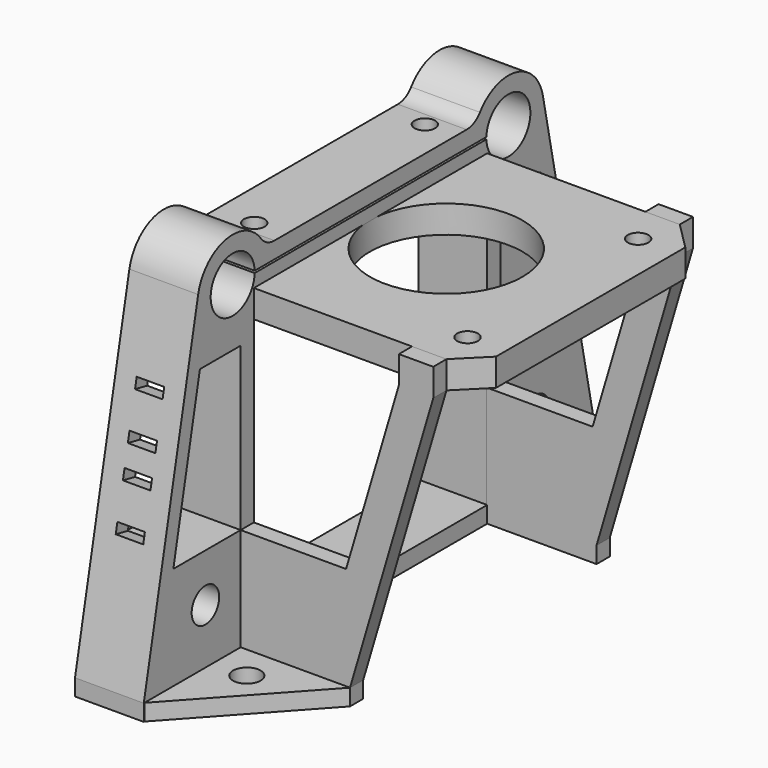
from build123d import *

# Parameters (mm, degrees)
SKETCH015_W     = 42
SKETCH015_H     = 42.4
PAD004_DEPTH    = 4
CHAMFER003_SIZE = 4
SKETCH018_R     = 11.1
SKETCH018_R_2   = 1.5
POCKET010_DEPTH = 4.001
SKETCH019_R     = 2.5
SKETCH019_W     = 42.4
SKETCH019_H     = 45
PAD006_DEPTH    = 10
SKETCH020_R     = 1.5
POCKET011_DEPTH = 12.401
FILLET004_R     = 3
SKETCH_W        = 1.5
SKETCH_H        = 4
POCKET_DEPTH    = 2.2533090509
PAD007_DEPTH    = 2.4
PAD008_DEPTH    = 2.4
SKETCH023_R     = 2
PAD009_DEPTH    = 2.4
SKETCH024_R     = 2
PAD010_DEPTH    = 2.4


with BuildPart() as motorplate:
    # Sketch015 → Pad004 (new body)
    with BuildSketch(Plane.XY):
        Rectangle(SKETCH015_W, SKETCH015_H)
    extrude(amount=PAD004_DEPTH)

    # Chamfer003
    chamfer003_edges = [motorplate.edges().sort_by_distance(p)[0] for p in [
        (21, -21.2, 2),
        (21, 21.2, 2),
    ]]
    chamfer(chamfer003_edges, length=CHAMFER003_SIZE)

    # Sketch018 → Pocket010 (cut, through all)
    with BuildSketch(Plane(origin=(0, 0, 0), x_dir=(1, 0, 0), z_dir=(0, 0, -1))):
        Circle(SKETCH018_R)
        with Locations((-15.5, 15.5)):
            Circle(SKETCH018_R_2)
        with Locations((15.5, 15.5)):
            Circle(SKETCH018_R_2)
        with Locations((-15.5, -15.5)):
            Circle(SKETCH018_R_2)
        with Locations((15.5, -15.5)):
            Circle(SKETCH018_R_2)
    extrude(amount=-POCKET010_DEPTH, mode=Mode.SUBTRACT)


with BuildPart() as rodholder:
    # Sketch019 → Pad006 (new body)
    with BuildSketch(Plane(origin=(-21.2, 0, 0), x_dir=(0, -1, 0), z_dir=(-1, 0, 0))):
        with BuildLine():
            ThreePointArc((-19.1799488929, 8.55), (-25.7143172438, 12.3654287051), (-31.3200773591, 7.2830159436))
            Line((-31.3200773591, 7.2830159436), (-41.2, -41))
            Line((-41.2, -41), (-41.2, -43.4))
            Line((-41.2, -43.4), (41.2, -43.4))
            Line((41.2, -41), (41.2, -43.4))
            Line((41.2, -41), (31.3200773591, 7.2830159436))
            ThreePointArc((31.3200773591, 7.2830159436), (25.7143172438, 12.3654287051), (19.1799488929, 8.55))
            Line((-19.1799488929, 8.55), (19.1799488929, 8.55))
        make_face()
        with Locations((-30, -33)):
            Circle(SKETCH019_R, mode=Mode.SUBTRACT)
        with Locations((30, -33)):
            Circle(SKETCH019_R, mode=Mode.SUBTRACT)
        with Locations((0, -18.5)):
            Rectangle(SKETCH019_W, SKETCH019_H, mode=Mode.SUBTRACT)
        with BuildLine():
            ThreePointArc((21.0528134895, 5.85), (29.05, 6), (21.0528134895, 6.15))
            Line((-21.0528134895, 6.15), (21.0528134895, 6.15))
            ThreePointArc((-21.0528134895, 6.15), (-29.05, 6), (-21.0528134895, 5.85))
            Line((-21.0528134895, 5.85), (21.0528134895, 5.85))
        make_face(mode=Mode.SUBTRACT)
        Polygon((-31.001466603, -2.4), (-23.6, -2.4), (-23.6, -26), (-35.8306217369, -26), align=None, mode=Mode.SUBTRACT)
        Polygon((23.6, -2.4), (23.6, -26), (35.8306217369, -26), (31.001466603, -2.4), align=None, mode=Mode.SUBTRACT)
    extrude(amount=-PAD006_DEPTH)

    # Sketch020 → Pocket011 (cut, through all)
    with BuildSketch(Plane.XY):
        with Locations((-15.7, 15.5)):
            Circle(SKETCH020_R)
        with Locations((-15.7, -15.5)):
            Circle(SKETCH020_R)
    extrude(amount=POCKET011_DEPTH, mode=Mode.SUBTRACT)

    # Fillet004
    fillet004_edges = [rodholder.edges().sort_by_distance(p)[0] for p in [
        (-16.2, -19.179949, 8.55),
        (-16.2, 19.179949, 8.55),
    ]]
    fillet(fillet004_edges, radius=FILLET004_R)

    # Sketch (on Face4 of Fillet004) → Pocket (cut)
    with BuildSketch(Plane(origin=(-21.2, -31.4917595132, 6.4440081411), x_dir=(0, 0.2004712412, 0.9796995874), z_dir=(0, -0.9796995874, 0.2004712412))):
        with Locations((-29.4533105631, -5)):
            Rectangle(SKETCH_W, SKETCH_H)
        with Locations((-22.9533105631, -5)):
            Rectangle(SKETCH_W, SKETCH_H)
        with Locations((-18.4533105631, -5)):
            Rectangle(SKETCH_W, SKETCH_H)
        with Locations((-11.9533105631, -5)):
            Rectangle(SKETCH_W, SKETCH_H)
    extrude(amount=-POCKET_DEPTH, mode=Mode.SUBTRACT)


with BuildPart() as rodholder_1:
    # Body002 placement: moved
    add(rodholder.part.moved(Location((0.2, 0, 0))))


with BuildPart() as rightsupport:
    # Sketch021 → Pad007 (new body)
    with BuildSketch(Plane.XZ):
        Polygon((-11.1, -43.4), (4.9, -43.4), (4.9, -41), (17, 0), (17, 4), (12, 4), (12, 0), (4.3268292683, -26), (-11.1, -26), align=None)
    extrude(amount=PAD007_DEPTH)


with BuildPart() as rightsupport_1:
    # Body003 placement: moved
    add(rightsupport.part.moved(Location((0, -21.2, 0))))


with BuildPart() as leftsupport:
    # Sketch022 → Pad008 (new body)
    with BuildSketch(Plane.XZ):
        Polygon((12, 4), (17, 4), (17, 0), (4.9, -41), (4.9, -43.4), (-11.1, -43.4), (-11.1, -26), (4.3268292683, -26), (12, 0), align=None)
    extrude(amount=-PAD008_DEPTH)


with BuildPart() as leftsupport_1:
    # Body004 placement: moved
    add(leftsupport.part.moved(Location((0, 21.2, 0))))


with BuildPart() as rightmountingplate:
    # Sketch023 → Pad009 (new body)
    with BuildSketch(Plane.XY):
        Polygon((-11.1, -23.6), (-11.1, -41.2), (4.9, -23.6), align=None)
        with Locations((-6.1, -28.6)):
            Circle(SKETCH023_R, mode=Mode.SUBTRACT)
    extrude(amount=-PAD009_DEPTH)


with BuildPart() as rightmountingplate_1:
    # Body005 placement: moved
    add(rightmountingplate.part.moved(Location((0, 0, -41))))


with BuildPart() as leftmountingplate:
    # Sketch024 → Pad010 (new body)
    with BuildSketch(Plane.XY):
        Polygon((-11.1, 41.2), (-11.1, 23.6), (4.9, 23.6), align=None)
        with Locations((-6.1, 28.6)):
            Circle(SKETCH024_R, mode=Mode.SUBTRACT)
    extrude(amount=-PAD010_DEPTH)


with BuildPart() as leftmountingplate_1:
    # Body006 placement: moved
    add(leftmountingplate.part.moved(Location((0, 0, -41))))


solid = Compound([motorplate.part, rodholder_1.part, rightsupport_1.part, leftsupport_1.part, rightmountingplate_1.part, leftmountingplate_1.part])
